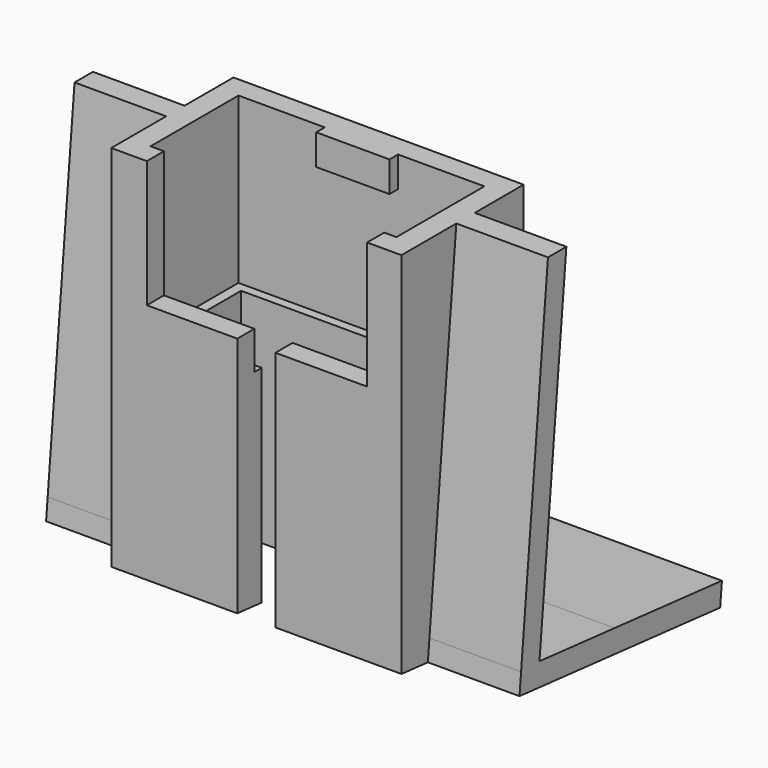
from build123d import *

# Parameters (mm, degrees)
F0_W           = 19
F0_H           = 10
F0_W_2         = 16.1
F0_H_2         = 7.2
F1_DEPTH       = 10.8
F0_W_3         = 14.7984437644
F0_H_3         = 6.0001779348
F2_DEPTH       = 12.2
F4_DEPTH       = 6
F4_DEPTH_BACK  = 25
F5_DEPTH       = 19
F6_DEPTH       = 15.1224483792
F7_DEPTH       = 25
F8_W           = 14.4229265861
F8_H           = 8.3078492425
F9_DEPTH       = 25
F10_W          = 4.8
F10_H          = 2
F11_DEPTH      = 0.7
F12_W          = 2.5
F12_H          = 5
F13_DEPTH      = 25
F13_DEPTH_BACK = 25


with BuildPart() as f1:
    # F0 (on Top) → F1 (new body)
    with BuildSketch(Plane.XY):
        Rectangle(F0_W, F0_H)
        Rectangle(F0_W_2, F0_H_2, mode=Mode.SUBTRACT)
    extrude(amount=F1_DEPTH)

    # F0 (on Top) → F2 (join)
    with BuildSketch(Plane.XY):
        Rectangle(F0_W, F0_H)
        Rectangle(F0_W_2, F0_H_2, mode=Mode.SUBTRACT)
        Rectangle(F0_W_2, F0_H_2)
        Rectangle(F0_W_3, F0_H_3, mode=Mode.SUBTRACT)
    extrude(amount=-F2_DEPTH)

    # F3 (on face) → F4 (join, two sides)
    with BuildSketch(Plane(origin=(-9.5, 0, 0), x_dir=(0, -1, 0), z_dir=(-1, 0, 0))) as f4_sk:
        Polygon((0.4931847272, 10.8), (-1, 10.8), (1.2, -12.2), (2.7068463795, -12.2), (0.5068463795, 10.8), align=None)
        Polygon((2.7068463795, -12.2), (1.2, -12.2), (-4.943788401, -12.7876667166), (-13.7318472715, -13.6282636521), (-13.5890209063, -15.1214483792), (2.8360110924, -13.5503583619), align=None)
    extrude(amount=F4_DEPTH)
    extrude(f4_sk.sketch, amount=-F4_DEPTH_BACK)

    # F3 (on face) → F5 (join)
    with BuildSketch(Plane(origin=(-9.5, 0, 0), x_dir=(0, -1, 0), z_dir=(-1, 0, 0))):
        Polygon((-4.943788401, -12.7876667166), (1.2, -12.2), (-5, -12.2), align=None)
        Polygon((5, -12.2), (2.7068463795, -12.2), (2.8360110924, -13.5503583619), (5, -13.3433681186), align=None)
    extrude(amount=-F5_DEPTH)

    # F0 (on Top) → F6 (cut, through all)
    with BuildSketch(Plane.XY):
        Rectangle(F0_W_3, F0_H_3)
    extrude(amount=-F6_DEPTH, mode=Mode.SUBTRACT)

    # F0 (on Top) → F7 (cut)
    with BuildSketch(Plane.XY):
        Rectangle(F0_W_2, F0_H_2)
        Rectangle(F0_W_3, F0_H_3, mode=Mode.SUBTRACT)
        Rectangle(F0_W_3, F0_H_3)
    extrude(amount=F7_DEPTH, mode=Mode.SUBTRACT)

    # F8 (on face) → F9 (cut)
    with BuildSketch(Plane(origin=(0, -3.6, 0), x_dir=(-1, 0, 0), z_dir=(0, 1, 0))):
        with Locations((-0.0403469894, 6.6460753787)):
            Rectangle(F8_W, F8_H)
    extrude(amount=-F9_DEPTH, mode=Mode.SUBTRACT)

    # F10 (on face) → F11 (join)
    with BuildSketch(Plane.XZ.offset(-3.6)):
        with Locations((0, 9.8)):
            Rectangle(F10_W, F10_H)
    extrude(amount=F11_DEPTH)

    # F12 (on Top) → F13 (cut, two sides)
    with BuildSketch(Plane.XY) as f13_sk:
        with Locations((0, -4.9948594533)):
            Rectangle(F12_W, F12_H)
    extrude(amount=-F13_DEPTH, mode=Mode.SUBTRACT)
    extrude(f13_sk.sketch, amount=F13_DEPTH_BACK, mode=Mode.SUBTRACT)


solid = f1.part
